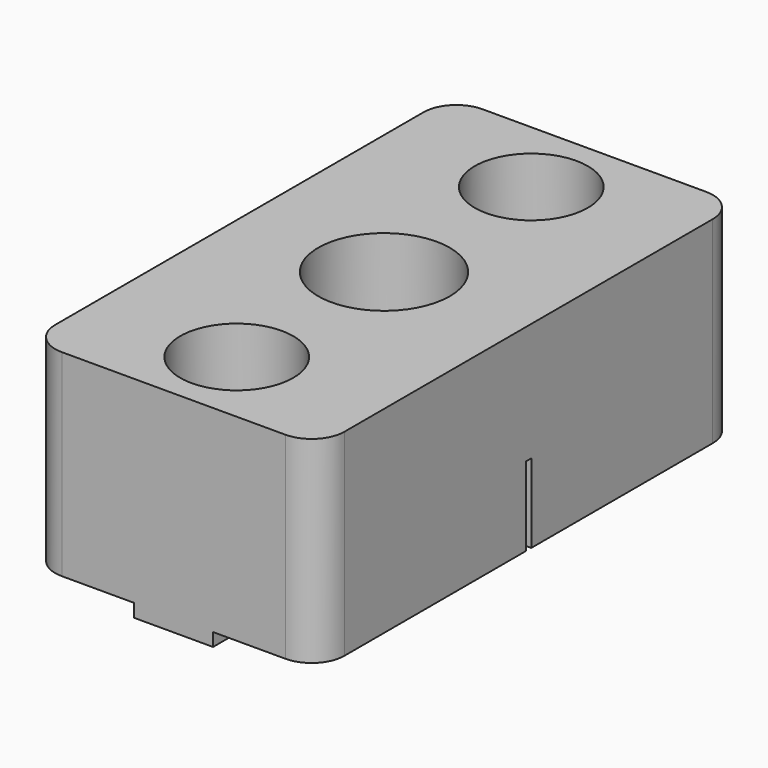
from build123d import *

# Parameters (mm, degrees)
F1_W      = 22
F1_H      = 40
F1_R      = 2.75
F1_R_2    = 5
F2_DEPTH  = 15
F3_R      = 4.3
F4_DEPTH  = 11
F5_R      = 2.5
F6_R      = 2.75
F7_DEPTH  = 1
F8_R      = 2.75
F9_DEPTH  = 0.3
F10_W     = 0.25
F10_H     = 6
F11_DEPTH = 1


with BuildPart() as f2:
    # F1 (on Top) → F2 (new body)
    with BuildSketch(Plane.XY):
        Rectangle(F1_W, F1_H)
        with Locations((0, -14)):
            Circle(F1_R, mode=Mode.SUBTRACT)
        Circle(F1_R_2, mode=Mode.SUBTRACT)
        with Locations((0, 14)):
            Circle(F1_R, mode=Mode.SUBTRACT)
    extrude(amount=F2_DEPTH)

    # F3 (on face) → F4 (cut)
    with BuildSketch(Plane.XY.offset(15)):
        with Locations((0, 14)):
            Circle(F3_R)
        with Locations((0, -14)):
            Circle(F3_R)
    extrude(amount=-F4_DEPTH, mode=Mode.SUBTRACT)

    # F5
    f5_edges = [f2.edges().sort_by_distance(p)[0] for p in [
        (11, -20, 7.5),
        (-11, -20, 7.5),
        (11, 20, 7.5),
        (-11, 20, 7.5),
    ]]
    fillet(f5_edges, radius=F5_R)

    # F6 (on face) → F7 (join)
    with BuildSketch(Plane.XY):
        with BuildLine():
            Line((-3, -20), (0, -20))
            Line((0, -20), (3, -20))
            Line((3, -20), (3, -4))
            ThreePointArc((3, -4), (0, -5), (-3, -4))
            Line((-3, -4), (-3, -20))
        make_face()
        with Locations((0, -14)):
            Circle(F6_R, mode=Mode.SUBTRACT)
        with BuildLine():
            Line((3, 20), (0, 20))
            Line((0, 20), (-3, 20))
            Line((-3, 20), (-3, 4))
            ThreePointArc((-3, 4), (0, 5), (3, 4))
            Line((3, 4), (3, 20))
        make_face()
        with Locations((0, 14)):
            Circle(F6_R, mode=Mode.SUBTRACT)
    extrude(amount=-F7_DEPTH)

    # F8 (on face) → F9 (join)
    with BuildSketch(Plane.XY.offset(4)):
        with Locations((0, 14)):
            Circle(F8_R)
        with Locations((0, -14)):
            Circle(F8_R)
    extrude(amount=-F9_DEPTH)

    # F10 (on face) → F11 (cut)
    with BuildSketch(Plane.YZ.offset(11)):
        with Locations((0.125, 3)):
            Rectangle(F10_W, F10_H)
        with Locations((-0.125, 3)):
            Rectangle(F10_W, F10_H)
    extrude(amount=-F11_DEPTH, mode=Mode.SUBTRACT)


solid = f2.part
